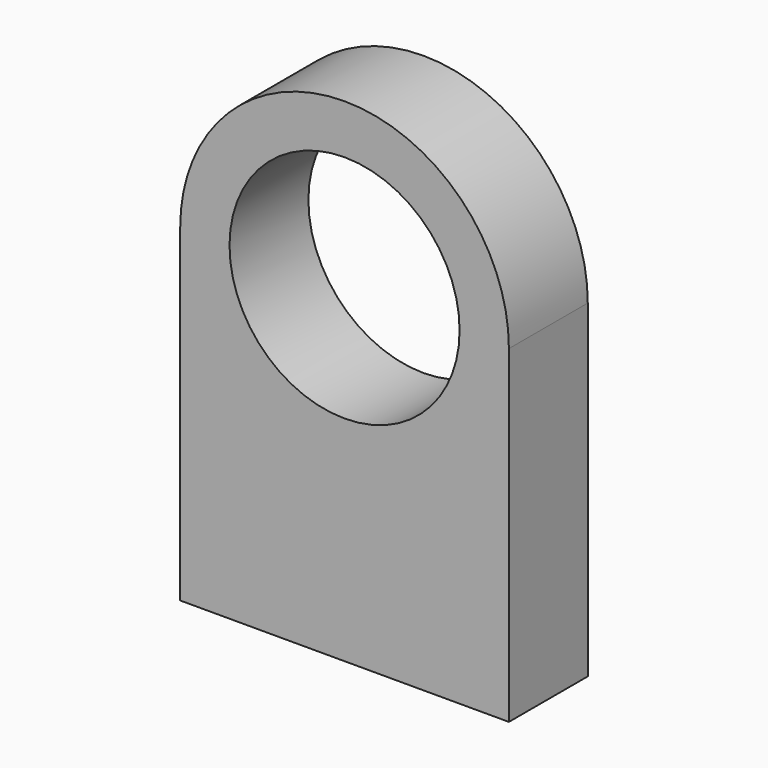
from build123d import *

# Parameters (mm, degrees)
F0_R     = 3.5
F1_DEPTH = 1.5


with BuildPart() as f1:
    # F0 (on Front) → F1 (new body, symmetric)
    with BuildSketch(Plane.XZ):
        with BuildLine():
            ThreePointArc((-5, 0), (0, -5), (5, 0))
            ThreePointArc((5, 0), (0, 5), (-5, 0))
        make_face()
        Circle(F0_R, mode=Mode.SUBTRACT)
        with BuildLine():
            Line((5, -10), (5, 0))
            ThreePointArc((5, 0), (0, -5), (-5, 0))
            Line((-5, 0), (-5, -10))
            Line((-5, -10), (5, -10))
        make_face()
    extrude(amount=F1_DEPTH, both=True)


solid = f1.part
